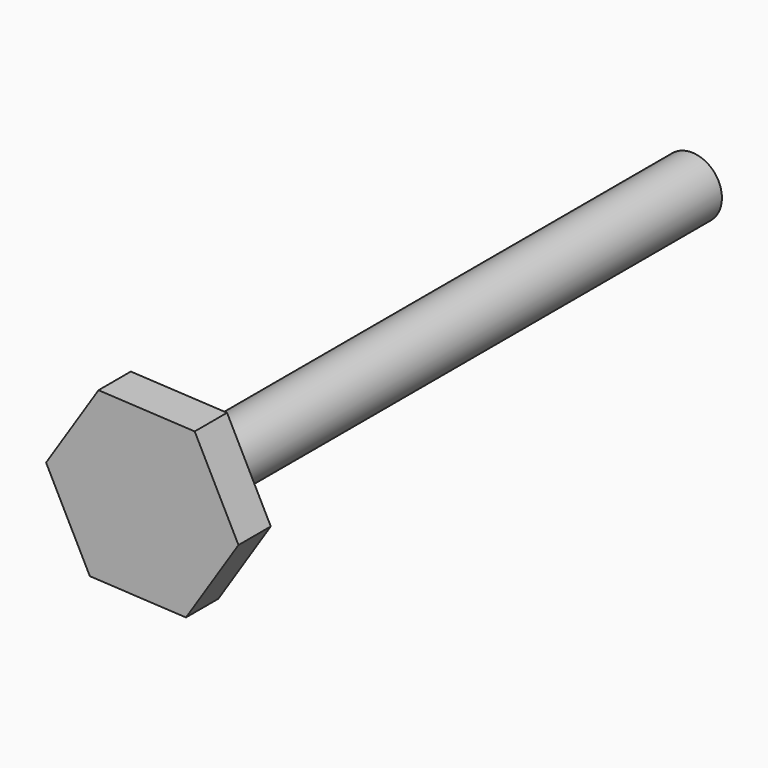
from build123d import *

# Parameters (mm, degrees)
F0_R     = 4.7625
F1_DEPTH = 101.6
F3_DEPTH = 6.35


with BuildPart() as f1:
    # F0 (on Front) → F1 (new body)
    with BuildSketch(Plane.XZ):
        Circle(F0_R)
    extrude(amount=F1_DEPTH)

    # F2 (on face) → F3 (join)
    with BuildSketch(Plane.XZ.offset(101.6)):
        Polygon((6.876293, -13.489912), (15.120753, -0.789912), (8.24446, 12.7), (-6.876293, 13.489912), (-15.120753, 0.789912), (-8.24446, -12.7), align=None)
    extrude(amount=F3_DEPTH)


solid = f1.part
